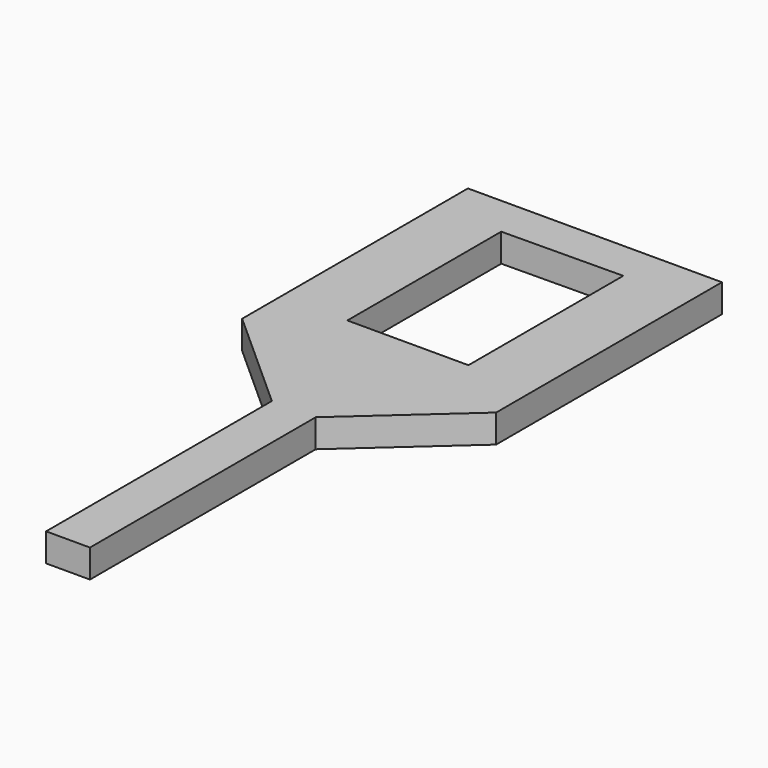
from build123d import *

# Parameters (mm, degrees)
F1_DEPTH = 3


with BuildPart() as f1:
    # F0 (on Top) → F1 (new body)
    with BuildSketch(Plane.XY):
        Polygon((13.5, -26.664634), (13.5, 3.335366), (-13.5, 3.335366), (-13.5, -26.664634), (-2.331458, -36.677809), (-2.331458, -66.677809), (2.331458, -66.677809), (2.331458, -36.677809), align=None)
        Polygon((-6.485438, -21.452894), (-6.485438, -1.00588), (6.387032, -0.88257), (6.387032, -21.452894), align=None, mode=Mode.SUBTRACT)
    extrude(amount=F1_DEPTH)


solid = f1.part
